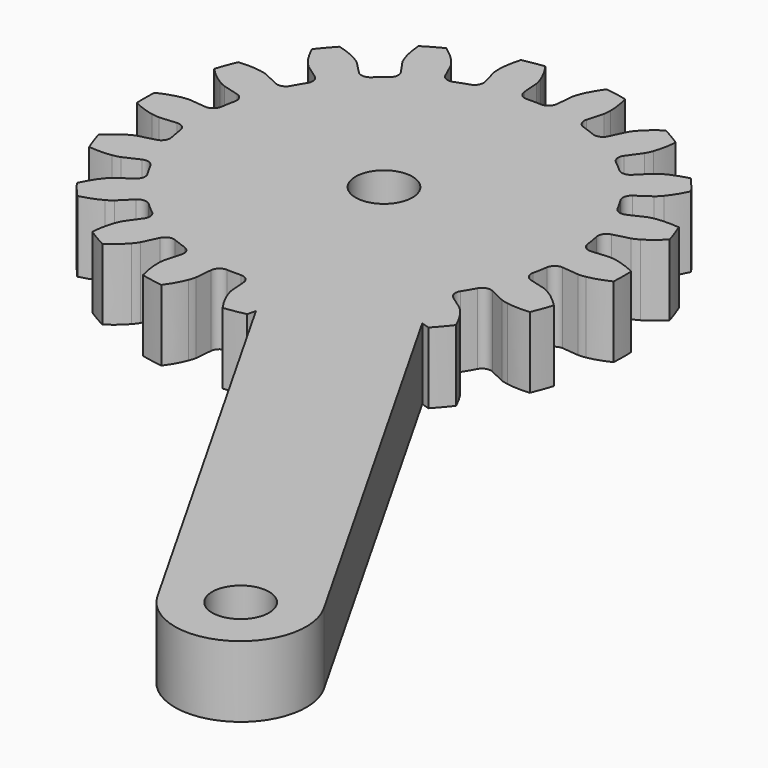
from build123d import *

# Parameters (mm, degrees)
CYLINDER006_R            = 1.6
CYLINDER006_DEPTH        = 30
EXTRUDE001_DEPTH         = 4
PAD004_DEPTH             = 4
CUT003_PLACEMENT_ANGLE   = -90.0000000001
CLONE015_PLACEMENT_ANGLE = 29.6010308611


with BuildPart() as finger_drill_master002:
    # Cylinder006 → Cylinder006 (new body)
    with BuildSketch(Plane.XY.offset(-8)):
        Circle(CYLINDER006_R)
    extrude(amount=CYLINDER006_DEPTH)


with BuildPart() as clone014:
    # Clone014 base: copy of finger-drill-master002
    add(finger_drill_master002.part)


with BuildPart() as clone014_1:
    # Clone014 placement: moved
    add(clone014.part.moved(Location((40, 0, 0))))


with BuildPart() as gear_drills001:
    # Clone013 base: copy of finger-drill-master002
    add(finger_drill_master002.part)

    # Fusion005: union Clone014
    add(clone014_1.part)


with BuildPart() as extrude001:
    # InvoluteGear001 → Extrude001 (new body)
    with BuildSketch(Plane.XY):
        with BuildLine():
            Line((10.9123364389, -0.9889898601), (11.8536391947, -1.0736474035))
            add(Edge.make_bspline(
                [(11.8536391947, -1.0736474035), (11.9004729513, -1.0753365715), (12.0417566801, -1.0753474223), (12.2778856715, -1.0319970418)],
                knots=[0, 0, 0, 0, 1, 1, 1, 1], degree=3))
            add(Edge.make_bspline(
                [(12.2778856715, -1.0319970418), (12.5610135171, -0.9793695837), (12.9715689189, -0.8647413418), (13.486733046, -0.6175170356)],
                knots=[0, 0, 0, 0, 1, 1, 1, 1], degree=3))
            ThreePointArc((13.486733046, -0.6175170356), (13.5008636743, 0), (13.486733046, 0.6175170356))
            add(Edge.make_bspline(
                [(13.486733046, 0.6175170356), (12.9715689189, 0.8647413418), (12.5610135171, 0.9793695837), (12.2778856715, 1.0319970418)],
                knots=[0, 0, 0, 0, 1, 1, 1, 1], degree=3))
            add(Edge.make_bspline(
                [(12.2778856715, 1.0319970418), (12.0417566801, 1.0753474223), (11.9004729513, 1.0753365715), (11.8536391947, 1.0736474035)],
                knots=[0, 0, 0, 0, 1, 1, 1, 1], degree=3))
            Line((11.8536391947, 1.0736474035), (10.9123364389, 0.9889898601))
            ThreePointArc((10.9123364389, 0.9889898601), (10.5517038642, 1.096810999), (10.3651746967, 1.4237484879))
            ThreePointArc((10.3651746967, 1.4237484879), (10.3035511159, 1.8167940588), (10.2270288375, 2.2072125874))
            ThreePointArc((10.2270288375, 2.2072125874), (10.290489713, 2.5782300658), (10.5924964809, 2.8028923993))
            Line((10.5924964809, 2.8028923993), (11.5059863196, 3.0452848339))
            add(Edge.make_bspline(
                [(11.5059863196, 3.0452848339), (11.5505733845, 3.0597156233), (11.6833403731, 3.1080273081), (11.8904023405, 3.2295242123)],
                knots=[0, 0, 0, 0, 1, 1, 1, 1], degree=3))
            add(Edge.make_bspline(
                [(11.8904023405, 3.2295242123), (12.138455837, 3.3758132726), (12.4850465508, 3.623946803), (12.8845867868, 4.0324581678)],
                knots=[0, 0, 0, 0, 1, 1, 1, 1], degree=3))
            ThreePointArc((12.8845867868, 4.0324581678), (12.6866619689, 4.6175673289), (12.4621802568, 5.193010571))
            add(Edge.make_bspline(
                [(12.4621802568, 5.193010571), (11.8935286354, 5.2491289186), (11.4685275862, 5.2164260143), (11.1844747882, 5.1690442219)],
                knots=[0, 0, 0, 0, 1, 1, 1, 1], degree=3))
            add(Edge.make_bspline(
                [(11.1844747882, 5.1690442219), (10.9477594141, 5.1290193831), (10.8149998479, 5.0806873055), (10.7715682419, 5.0630819187)],
                knots=[0, 0, 0, 0, 1, 1, 1, 1], degree=3))
            Line((10.7715682419, 5.0630819187), (9.9159875735, 4.6615853464))
            ThreePointArc((9.9159875735, 4.6615853464), (9.5402268028, 4.6395604701), (9.2531275137, 4.8829844833))
            ThreePointArc((9.2531275137, 4.8829844833), (9.0607907871, 5.23125), (8.8553523657, 5.5719512497))
            ThreePointArc((8.8553523657, 5.5719512497), (8.7880906309, 5.942298534), (8.9950451186, 6.2567044691))
            Line((8.9950451186, 6.2567044691), (9.770541684, 6.7969107767))
            add(Edge.make_bspline(
                [(9.770541684, 6.7969107767), (9.8075041992, 6.8257209574), (9.9157407894, 6.9165280756), (10.0687610036, 7.1015171836)],
                knots=[0, 0, 0, 0, 1, 1, 1, 1], degree=3))
            add(Edge.make_bspline(
                [(10.0687610036, 7.1015171836), (10.2518212384, 7.3238232265), (10.4926433089, 7.6755334796), (10.728369205, 8.1960594034)],
                knots=[0, 0, 0, 0, 1, 1, 1, 1], degree=3))
            ThreePointArc((10.728369205, 8.1960594034), (10.342261595, 8.6781878899), (9.9345046064, 9.1421503908))
            add(Edge.make_bspline(
                [(9.9345046064, 9.1421503908), (9.3809532688, 9.0003940789), (8.992767971, 8.8243044813), (8.7420511802, 8.6826283819)],
                knots=[0, 0, 0, 0, 1, 1, 1, 1], degree=3))
            add(Edge.make_bspline(
                [(8.7420511802, 8.6826283819), (8.5333007911, 8.5640559101), (8.4250781504, 8.4732321675), (8.3902871877, 8.4418340314)],
                knots=[0, 0, 0, 0, 1, 1, 1, 1], degree=3))
            Line((8.3902871877, 8.4418340314), (7.7236242623, 7.7719248423))
            ThreePointArc((7.7236242623, 7.7719248423), (7.3780575903, 7.6227104759), (7.025016591, 7.7532604848))
            ThreePointArc((7.025016591, 7.7532604848), (6.7251653663, 8.0147399861), (6.4155897075, 8.264630358))
            ThreePointArc((6.4155897075, 8.264630358), (6.2257181204, 8.5896381001), (6.3126585624, 8.9558656407))
            Line((6.3126585624, 8.9558656407), (6.8566255235, 9.7287289682))
            add(Edge.make_bspline(
                [(6.8566255235, 9.7287289682), (6.8815052641, 9.7684436071), (6.9521565257, 9.8907934801), (7.0326784905, 10.1169623754)],
                knots=[0, 0, 0, 0, 1, 1, 1, 1], degree=3))
            add(Edge.make_bspline(
                [(7.0326784905, 10.1169623754), (7.1286656978, 10.3884720112), (7.2346724291, 10.8013375398), (7.2781519631, 11.371094914)],
                knots=[0, 0, 0, 0, 1, 1, 1, 1], degree=3))
            ThreePointArc((7.2781519631, 11.371094914), (6.7504318371, 11.6920909149), (6.2085810829, 11.9886119497))
            add(Edge.make_bspline(
                [(6.2085810829, 11.9886119497), (5.7368964898, 11.6660788816), (5.4323478194, 11.367841595), (5.2452071809, 11.1489594171)],
                knots=[0, 0, 0, 0, 1, 1, 1, 1], degree=3))
            add(Edge.make_bspline(
                [(5.2452071809, 11.1489594171), (5.0896001545, 10.9661409023), (5.0189676871, 10.8437801786), (4.9970136712, 10.8023763717)],
                knots=[0, 0, 0, 0, 1, 1, 1, 1], degree=3))
            Line((4.9970136712, 10.8023763717), (4.5996778766, 9.9448555008))
            ThreePointArc((4.5996778766, 9.9448555008), (4.3259857438, 9.6864490991), (3.9495849892, 9.688378846))
            ThreePointArc((3.9495849892, 9.688378846), (3.5783857495, 9.831534045), (3.2020122465, 9.9604730723))
            ThreePointArc((3.2020122465, 9.9604730723), (2.9124321227, 10.2009405417), (2.8688722185, 10.5748172416))
            Line((2.8688722185, 10.5748172416), (3.1156991319, 11.4871188653))
            add(Edge.make_bspline(
                [(3.1156991319, 11.4871188653), (3.1254952341, 11.5329477909), (3.1500395821, 11.6720832183), (3.1483511603, 11.9121525942)],
                knots=[0, 0, 0, 0, 1, 1, 1, 1], degree=3))
            add(Edge.make_bspline(
                [(3.1483511603, 11.9121525942), (3.145687866, 12.2001177539), (3.104093282, 12.6243408819), (2.9500821804, 13.1746085586)],
                knots=[0, 0, 0, 0, 1, 1, 1, 1], degree=3))
            ThreePointArc((2.9500821804, 13.1746085586), (2.344400374, 13.2957552188), (1.7338110518, 13.3890699744))
            add(Edge.make_bspline(
                [(1.7338110518, 13.3890699744), (1.4008853265, 12.9246623982), (1.2167063478, 12.5402492408), (1.1157137846, 12.2705614055)],
                knots=[0, 0, 0, 0, 1, 1, 1, 1], degree=3))
            add(Edge.make_bspline(
                [(1.1157137846, 12.2705614055), (1.0320186248, 12.0455474587), (1.0074956487, 11.9064082629), (1.0010265579, 11.8599926954)],
                knots=[0, 0, 0, 0, 1, 1, 1, 1], degree=3))
            Line((1.0010265579, 11.8599926954), (0.9209424549, 10.9182898155))
            ThreePointArc((0.9209424549, 10.9182898155), (0.7521361719, 10.5818590042), (0.397775148, 10.454935733))
            ThreePointArc((0.397775148, 10.454935733), (0, 10.4625), (-0.397775148, 10.454935733))
            ThreePointArc((-0.397775148, 10.454935733), (-0.7521361719, 10.5818590042), (-0.9209424549, 10.9182898155))
            Line((-0.9209424549, 10.9182898155), (-1.0010265579, 11.8599926954))
            add(Edge.make_bspline(
                [(-1.0010265579, 11.8599926954), (-1.0074956487, 11.9064082629), (-1.0320186248, 12.0455474587), (-1.1157137846, 12.2705614055)],
                knots=[0, 0, 0, 0, 1, 1, 1, 1], degree=3))
            add(Edge.make_bspline(
                [(-1.1157137846, 12.2705614055), (-1.2167063478, 12.5402492408), (-1.4008853265, 12.9246623982), (-1.7338110518, 13.3890699744)],
                knots=[0, 0, 0, 0, 1, 1, 1, 1], degree=3))
            ThreePointArc((-1.7338110518, 13.3890699744), (-2.344400374, 13.2957552188), (-2.9500821804, 13.1746085586))
            add(Edge.make_bspline(
                [(-2.9500821804, 13.1746085586), (-3.104093282, 12.6243408819), (-3.145687866, 12.2001177539), (-3.1483511603, 11.9121525942)],
                knots=[0, 0, 0, 0, 1, 1, 1, 1], degree=3))
            add(Edge.make_bspline(
                [(-3.1483511603, 11.9121525942), (-3.1500395821, 11.6720832183), (-3.1254952341, 11.5329477909), (-3.1156991319, 11.4871188653)],
                knots=[0, 0, 0, 0, 1, 1, 1, 1], degree=3))
            Line((-3.1156991319, 11.4871188653), (-2.8688722185, 10.5748172416))
            ThreePointArc((-2.8688722185, 10.5748172416), (-2.9124321227, 10.2009405417), (-3.2020122465, 9.9604730723))
            ThreePointArc((-3.2020122465, 9.9604730723), (-3.5783857495, 9.831534045), (-3.9495849892, 9.688378846))
            ThreePointArc((-3.9495849892, 9.688378846), (-4.3259857438, 9.6864490991), (-4.5996778766, 9.9448555008))
            Line((-4.5996778766, 9.9448555008), (-4.9970136712, 10.8023763717))
            add(Edge.make_bspline(
                [(-4.9970136712, 10.8023763717), (-5.0189676871, 10.8437801786), (-5.0896001545, 10.9661409023), (-5.2452071809, 11.1489594171)],
                knots=[0, 0, 0, 0, 1, 1, 1, 1], degree=3))
            add(Edge.make_bspline(
                [(-5.2452071809, 11.1489594171), (-5.4323478194, 11.367841595), (-5.7368964898, 11.6660788816), (-6.2085810829, 11.9886119497)],
                knots=[0, 0, 0, 0, 1, 1, 1, 1], degree=3))
            ThreePointArc((-6.2085810829, 11.9886119497), (-6.7504318371, 11.6920909149), (-7.2781519631, 11.371094914))
            add(Edge.make_bspline(
                [(-7.2781519631, 11.371094914), (-7.2346724291, 10.8013375398), (-7.1286656978, 10.3884720112), (-7.0326784905, 10.1169623754)],
                knots=[0, 0, 0, 0, 1, 1, 1, 1], degree=3))
            add(Edge.make_bspline(
                [(-7.0326784905, 10.1169623754), (-6.9521565257, 9.8907934801), (-6.8815052641, 9.7684436071), (-6.8566255235, 9.7287289682)],
                knots=[0, 0, 0, 0, 1, 1, 1, 1], degree=3))
            Line((-6.8566255235, 9.7287289682), (-6.3126585624, 8.9558656407))
            ThreePointArc((-6.3126585624, 8.9558656407), (-6.2257181204, 8.5896381001), (-6.4155897075, 8.264630358))
            ThreePointArc((-6.4155897075, 8.264630358), (-6.7251653663, 8.0147399861), (-7.025016591, 7.7532604848))
            ThreePointArc((-7.025016591, 7.7532604848), (-7.3780575903, 7.6227104759), (-7.7236242623, 7.7719248423))
            Line((-7.7236242623, 7.7719248423), (-8.3902871877, 8.4418340314))
            add(Edge.make_bspline(
                [(-8.3902871877, 8.4418340314), (-8.4250781504, 8.4732321675), (-8.5333007911, 8.5640559101), (-8.7420511802, 8.6826283819)],
                knots=[0, 0, 0, 0, 1, 1, 1, 1], degree=3))
            add(Edge.make_bspline(
                [(-8.7420511802, 8.6826283819), (-8.992767971, 8.8243044813), (-9.3809532688, 9.0003940789), (-9.9345046064, 9.1421503908)],
                knots=[0, 0, 0, 0, 1, 1, 1, 1], degree=3))
            ThreePointArc((-9.9345046064, 9.1421503908), (-10.342261595, 8.6781878899), (-10.728369205, 8.1960594034))
            add(Edge.make_bspline(
                [(-10.728369205, 8.1960594034), (-10.4926433089, 7.6755334796), (-10.2518212384, 7.3238232265), (-10.0687610036, 7.1015171836)],
                knots=[0, 0, 0, 0, 1, 1, 1, 1], degree=3))
            add(Edge.make_bspline(
                [(-10.0687610036, 7.1015171836), (-9.9157407894, 6.9165280756), (-9.8075041992, 6.8257209574), (-9.770541684, 6.7969107767)],
                knots=[0, 0, 0, 0, 1, 1, 1, 1], degree=3))
            Line((-9.770541684, 6.7969107767), (-8.9950451186, 6.2567044691))
            ThreePointArc((-8.9950451186, 6.2567044691), (-8.7880906309, 5.942298534), (-8.8553523657, 5.5719512497))
            ThreePointArc((-8.8553523657, 5.5719512497), (-9.0607907871, 5.23125), (-9.2531275137, 4.8829844833))
            ThreePointArc((-9.2531275137, 4.8829844833), (-9.5402268028, 4.6395604701), (-9.9159875735, 4.6615853464))
            Line((-9.9159875735, 4.6615853464), (-10.7715682419, 5.0630819187))
            add(Edge.make_bspline(
                [(-10.7715682419, 5.0630819187), (-10.8149998479, 5.0806873055), (-10.9477594141, 5.1290193831), (-11.1844747882, 5.1690442219)],
                knots=[0, 0, 0, 0, 1, 1, 1, 1], degree=3))
            add(Edge.make_bspline(
                [(-11.1844747882, 5.1690442219), (-11.4685275862, 5.2164260143), (-11.8935286354, 5.2491289186), (-12.4621802568, 5.193010571)],
                knots=[0, 0, 0, 0, 1, 1, 1, 1], degree=3))
            ThreePointArc((-12.4621802568, 5.193010571), (-12.6866619689, 4.6175673289), (-12.8845867868, 4.0324581678))
            add(Edge.make_bspline(
                [(-12.8845867868, 4.0324581678), (-12.4850465508, 3.623946803), (-12.138455837, 3.3758132726), (-11.8904023405, 3.2295242123)],
                knots=[0, 0, 0, 0, 1, 1, 1, 1], degree=3))
            add(Edge.make_bspline(
                [(-11.8904023405, 3.2295242123), (-11.6833403731, 3.1080273081), (-11.5505733845, 3.0597156233), (-11.5059863196, 3.0452848339)],
                knots=[0, 0, 0, 0, 1, 1, 1, 1], degree=3))
            Line((-11.5059863196, 3.0452848339), (-10.5924964809, 2.8028923993))
            ThreePointArc((-10.5924964809, 2.8028923993), (-10.290489713, 2.5782300658), (-10.2270288375, 2.2072125874))
            ThreePointArc((-10.2270288375, 2.2072125874), (-10.3035511159, 1.8167940588), (-10.3651746967, 1.4237484879))
            ThreePointArc((-10.3651746967, 1.4237484879), (-10.5517038642, 1.096810999), (-10.9123364389, 0.9889898601))
            Line((-10.9123364389, 0.9889898601), (-11.8536391947, 1.0736474035))
            add(Edge.make_bspline(
                [(-11.8536391947, 1.0736474035), (-11.9004729513, 1.0753365715), (-12.0417566801, 1.0753474223), (-12.2778856715, 1.0319970418)],
                knots=[0, 0, 0, 0, 1, 1, 1, 1], degree=3))
            add(Edge.make_bspline(
                [(-12.2778856715, 1.0319970418), (-12.5610135171, 0.9793695837), (-12.9715689189, 0.8647413418), (-13.486733046, 0.6175170356)],
                knots=[0, 0, 0, 0, 1, 1, 1, 1], degree=3))
            ThreePointArc((-13.486733046, 0.6175170356), (-13.5008636743, 0), (-13.486733046, -0.6175170356))
            add(Edge.make_bspline(
                [(-13.486733046, -0.6175170356), (-12.9715689189, -0.8647413418), (-12.5610135171, -0.9793695837), (-12.2778856715, -1.0319970418)],
                knots=[0, 0, 0, 0, 1, 1, 1, 1], degree=3))
            add(Edge.make_bspline(
                [(-12.2778856715, -1.0319970418), (-12.0417566801, -1.0753474223), (-11.9004729513, -1.0753365715), (-11.8536391947, -1.0736474035)],
                knots=[0, 0, 0, 0, 1, 1, 1, 1], degree=3))
            Line((-11.8536391947, -1.0736474035), (-10.9123364389, -0.9889898601))
            ThreePointArc((-10.9123364389, -0.9889898601), (-10.5517038642, -1.096810999), (-10.3651746967, -1.4237484879))
            ThreePointArc((-10.3651746967, -1.4237484879), (-10.3035511159, -1.8167940588), (-10.2270288375, -2.2072125874))
            ThreePointArc((-10.2270288375, -2.2072125874), (-10.290489713, -2.5782300658), (-10.5924964809, -2.8028923993))
            Line((-10.5924964809, -2.8028923993), (-11.5059863196, -3.0452848339))
            add(Edge.make_bspline(
                [(-11.5059863196, -3.0452848339), (-11.5505733845, -3.0597156233), (-11.6833403731, -3.1080273081), (-11.8904023405, -3.2295242123)],
                knots=[0, 0, 0, 0, 1, 1, 1, 1], degree=3))
            add(Edge.make_bspline(
                [(-11.8904023405, -3.2295242123), (-12.138455837, -3.3758132726), (-12.4850465508, -3.623946803), (-12.8845867868, -4.0324581678)],
                knots=[0, 0, 0, 0, 1, 1, 1, 1], degree=3))
            ThreePointArc((-12.8845867868, -4.0324581678), (-12.6866619689, -4.6175673289), (-12.4621802568, -5.193010571))
            add(Edge.make_bspline(
                [(-12.4621802568, -5.193010571), (-11.8935286354, -5.2491289186), (-11.4685275862, -5.2164260143), (-11.1844747882, -5.1690442219)],
                knots=[0, 0, 0, 0, 1, 1, 1, 1], degree=3))
            add(Edge.make_bspline(
                [(-11.1844747882, -5.1690442219), (-10.9477594141, -5.1290193831), (-10.8149998479, -5.0806873055), (-10.7715682419, -5.0630819187)],
                knots=[0, 0, 0, 0, 1, 1, 1, 1], degree=3))
            Line((-10.7715682419, -5.0630819187), (-9.9159875735, -4.6615853464))
            ThreePointArc((-9.9159875735, -4.6615853464), (-9.5402268028, -4.6395604701), (-9.2531275137, -4.8829844833))
            ThreePointArc((-9.2531275137, -4.8829844833), (-9.0607907871, -5.23125), (-8.8553523657, -5.5719512497))
            ThreePointArc((-8.8553523657, -5.5719512497), (-8.7880906309, -5.942298534), (-8.9950451186, -6.2567044691))
            Line((-8.9950451186, -6.2567044691), (-9.770541684, -6.7969107767))
            add(Edge.make_bspline(
                [(-9.770541684, -6.7969107767), (-9.8075041992, -6.8257209574), (-9.9157407894, -6.9165280756), (-10.0687610036, -7.1015171836)],
                knots=[0, 0, 0, 0, 1, 1, 1, 1], degree=3))
            add(Edge.make_bspline(
                [(-10.0687610036, -7.1015171836), (-10.2518212384, -7.3238232265), (-10.4926433089, -7.6755334796), (-10.728369205, -8.1960594034)],
                knots=[0, 0, 0, 0, 1, 1, 1, 1], degree=3))
            ThreePointArc((-10.728369205, -8.1960594034), (-10.342261595, -8.6781878899), (-9.9345046064, -9.1421503908))
            add(Edge.make_bspline(
                [(-9.9345046064, -9.1421503908), (-9.3809532688, -9.0003940789), (-8.992767971, -8.8243044813), (-8.7420511802, -8.6826283819)],
                knots=[0, 0, 0, 0, 1, 1, 1, 1], degree=3))
            add(Edge.make_bspline(
                [(-8.7420511802, -8.6826283819), (-8.5333007911, -8.5640559101), (-8.4250781504, -8.4732321675), (-8.3902871877, -8.4418340314)],
                knots=[0, 0, 0, 0, 1, 1, 1, 1], degree=3))
            Line((-8.3902871877, -8.4418340314), (-7.7236242623, -7.7719248423))
            ThreePointArc((-7.7236242623, -7.7719248423), (-7.3780575903, -7.6227104759), (-7.025016591, -7.7532604848))
            ThreePointArc((-7.025016591, -7.7532604848), (-6.7251653663, -8.0147399861), (-6.4155897075, -8.264630358))
            ThreePointArc((-6.4155897075, -8.264630358), (-6.2257181204, -8.5896381001), (-6.3126585624, -8.9558656407))
            Line((-6.3126585624, -8.9558656407), (-6.8566255235, -9.7287289682))
            add(Edge.make_bspline(
                [(-6.8566255235, -9.7287289682), (-6.8815052641, -9.7684436071), (-6.9521565257, -9.8907934801), (-7.0326784905, -10.1169623754)],
                knots=[0, 0, 0, 0, 1, 1, 1, 1], degree=3))
            add(Edge.make_bspline(
                [(-7.0326784905, -10.1169623754), (-7.1286656978, -10.3884720112), (-7.2346724291, -10.8013375398), (-7.2781519631, -11.371094914)],
                knots=[0, 0, 0, 0, 1, 1, 1, 1], degree=3))
            ThreePointArc((-7.2781519631, -11.371094914), (-6.7504318371, -11.6920909149), (-6.2085810829, -11.9886119497))
            add(Edge.make_bspline(
                [(-6.2085810829, -11.9886119497), (-5.7368964898, -11.6660788816), (-5.4323478194, -11.367841595), (-5.2452071809, -11.1489594171)],
                knots=[0, 0, 0, 0, 1, 1, 1, 1], degree=3))
            add(Edge.make_bspline(
                [(-5.2452071809, -11.1489594171), (-5.0896001545, -10.9661409023), (-5.0189676871, -10.8437801786), (-4.9970136712, -10.8023763717)],
                knots=[0, 0, 0, 0, 1, 1, 1, 1], degree=3))
            Line((-4.9970136712, -10.8023763717), (-4.5996778766, -9.9448555008))
            ThreePointArc((-4.5996778766, -9.9448555008), (-4.3259857438, -9.6864490991), (-3.9495849892, -9.688378846))
            ThreePointArc((-3.9495849892, -9.688378846), (-3.5783857495, -9.831534045), (-3.2020122465, -9.9604730723))
            ThreePointArc((-3.2020122465, -9.9604730723), (-2.9124321227, -10.2009405417), (-2.8688722185, -10.5748172416))
            Line((-2.8688722185, -10.5748172416), (-3.1156991319, -11.4871188653))
            add(Edge.make_bspline(
                [(-3.1156991319, -11.4871188653), (-3.1254952341, -11.5329477909), (-3.1500395821, -11.6720832183), (-3.1483511603, -11.9121525942)],
                knots=[0, 0, 0, 0, 1, 1, 1, 1], degree=3))
            add(Edge.make_bspline(
                [(-3.1483511603, -11.9121525942), (-3.145687866, -12.2001177539), (-3.104093282, -12.6243408819), (-2.9500821804, -13.1746085586)],
                knots=[0, 0, 0, 0, 1, 1, 1, 1], degree=3))
            ThreePointArc((-2.9500821804, -13.1746085586), (-2.344400374, -13.2957552188), (-1.7338110518, -13.3890699744))
            add(Edge.make_bspline(
                [(-1.7338110518, -13.3890699744), (-1.4008853265, -12.9246623982), (-1.2167063478, -12.5402492408), (-1.1157137846, -12.2705614055)],
                knots=[0, 0, 0, 0, 1, 1, 1, 1], degree=3))
            add(Edge.make_bspline(
                [(-1.1157137846, -12.2705614055), (-1.0320186248, -12.0455474587), (-1.0074956487, -11.9064082629), (-1.0010265579, -11.8599926954)],
                knots=[0, 0, 0, 0, 1, 1, 1, 1], degree=3))
            Line((-1.0010265579, -11.8599926954), (-0.9209424549, -10.9182898155))
            ThreePointArc((-0.9209424549, -10.9182898155), (-0.7521361719, -10.5818590042), (-0.397775148, -10.454935733))
            ThreePointArc((-0.397775148, -10.454935733), (0, -10.4625), (0.397775148, -10.454935733))
            ThreePointArc((0.397775148, -10.454935733), (0.7521361719, -10.5818590042), (0.9209424549, -10.9182898155))
            Line((0.9209424549, -10.9182898155), (1.0010265579, -11.8599926954))
            add(Edge.make_bspline(
                [(1.0010265579, -11.8599926954), (1.0074956487, -11.9064082629), (1.0320186248, -12.0455474587), (1.1157137846, -12.2705614055)],
                knots=[0, 0, 0, 0, 1, 1, 1, 1], degree=3))
            add(Edge.make_bspline(
                [(1.1157137846, -12.2705614055), (1.2167063478, -12.5402492408), (1.4008853265, -12.9246623982), (1.7338110518, -13.3890699744)],
                knots=[0, 0, 0, 0, 1, 1, 1, 1], degree=3))
            ThreePointArc((1.7338110518, -13.3890699744), (2.344400374, -13.2957552188), (2.9500821804, -13.1746085586))
            add(Edge.make_bspline(
                [(2.9500821804, -13.1746085586), (3.104093282, -12.6243408819), (3.145687866, -12.2001177539), (3.1483511603, -11.9121525942)],
                knots=[0, 0, 0, 0, 1, 1, 1, 1], degree=3))
            add(Edge.make_bspline(
                [(3.1483511603, -11.9121525942), (3.1500395821, -11.6720832183), (3.1254952341, -11.5329477909), (3.1156991319, -11.4871188653)],
                knots=[0, 0, 0, 0, 1, 1, 1, 1], degree=3))
            Line((3.1156991319, -11.4871188653), (2.8688722185, -10.5748172416))
            ThreePointArc((2.8688722185, -10.5748172416), (2.9124321227, -10.2009405417), (3.2020122465, -9.9604730723))
            ThreePointArc((3.2020122465, -9.9604730723), (3.5783857495, -9.831534045), (3.9495849892, -9.688378846))
            ThreePointArc((3.9495849892, -9.688378846), (4.3259857438, -9.6864490991), (4.5996778766, -9.9448555008))
            Line((4.5996778766, -9.9448555008), (4.9970136712, -10.8023763717))
            add(Edge.make_bspline(
                [(4.9970136712, -10.8023763717), (5.0189676871, -10.8437801786), (5.0896001545, -10.9661409023), (5.2452071809, -11.1489594171)],
                knots=[0, 0, 0, 0, 1, 1, 1, 1], degree=3))
            add(Edge.make_bspline(
                [(5.2452071809, -11.1489594171), (5.4323478194, -11.367841595), (5.7368964898, -11.6660788816), (6.2085810829, -11.9886119497)],
                knots=[0, 0, 0, 0, 1, 1, 1, 1], degree=3))
            ThreePointArc((6.2085810829, -11.9886119497), (6.7504318371, -11.6920909149), (7.2781519631, -11.371094914))
            add(Edge.make_bspline(
                [(7.2781519631, -11.371094914), (7.2346724291, -10.8013375398), (7.1286656978, -10.3884720112), (7.0326784905, -10.1169623754)],
                knots=[0, 0, 0, 0, 1, 1, 1, 1], degree=3))
            add(Edge.make_bspline(
                [(7.0326784905, -10.1169623754), (6.9521565257, -9.8907934801), (6.8815052641, -9.7684436071), (6.8566255235, -9.7287289682)],
                knots=[0, 0, 0, 0, 1, 1, 1, 1], degree=3))
            Line((6.8566255235, -9.7287289682), (6.3126585624, -8.9558656407))
            ThreePointArc((6.3126585624, -8.9558656407), (6.2257181204, -8.5896381001), (6.4155897075, -8.264630358))
            ThreePointArc((6.4155897075, -8.264630358), (6.7251653663, -8.0147399861), (7.025016591, -7.7532604848))
            ThreePointArc((7.025016591, -7.7532604848), (7.3780575903, -7.6227104759), (7.7236242623, -7.7719248423))
            Line((7.7236242623, -7.7719248423), (8.3902871877, -8.4418340314))
            add(Edge.make_bspline(
                [(8.3902871877, -8.4418340314), (8.4250781504, -8.4732321675), (8.5333007911, -8.5640559101), (8.7420511802, -8.6826283819)],
                knots=[0, 0, 0, 0, 1, 1, 1, 1], degree=3))
            add(Edge.make_bspline(
                [(8.7420511802, -8.6826283819), (8.992767971, -8.8243044813), (9.3809532688, -9.0003940789), (9.9345046064, -9.1421503908)],
                knots=[0, 0, 0, 0, 1, 1, 1, 1], degree=3))
            ThreePointArc((9.9345046064, -9.1421503908), (10.342261595, -8.6781878899), (10.728369205, -8.1960594034))
            add(Edge.make_bspline(
                [(10.728369205, -8.1960594034), (10.4926433089, -7.6755334796), (10.2518212384, -7.3238232265), (10.0687610036, -7.1015171836)],
                knots=[0, 0, 0, 0, 1, 1, 1, 1], degree=3))
            add(Edge.make_bspline(
                [(10.0687610036, -7.1015171836), (9.9157407894, -6.9165280756), (9.8075041992, -6.8257209574), (9.770541684, -6.7969107767)],
                knots=[0, 0, 0, 0, 1, 1, 1, 1], degree=3))
            Line((9.770541684, -6.7969107767), (8.9950451186, -6.2567044691))
            ThreePointArc((8.9950451186, -6.2567044691), (8.7880906309, -5.942298534), (8.8553523657, -5.5719512497))
            ThreePointArc((8.8553523657, -5.5719512497), (9.0607907871, -5.23125), (9.2531275137, -4.8829844833))
            ThreePointArc((9.2531275137, -4.8829844833), (9.5402268028, -4.6395604701), (9.9159875735, -4.6615853464))
            Line((9.9159875735, -4.6615853464), (10.7715682419, -5.0630819187))
            add(Edge.make_bspline(
                [(10.7715682419, -5.0630819187), (10.8149998479, -5.0806873055), (10.9477594141, -5.1290193831), (11.1844747882, -5.1690442219)],
                knots=[0, 0, 0, 0, 1, 1, 1, 1], degree=3))
            add(Edge.make_bspline(
                [(11.1844747882, -5.1690442219), (11.4685275862, -5.2164260143), (11.8935286354, -5.2491289186), (12.4621802568, -5.193010571)],
                knots=[0, 0, 0, 0, 1, 1, 1, 1], degree=3))
            ThreePointArc((12.4621802568, -5.193010571), (12.6866619689, -4.6175673289), (12.8845867868, -4.0324581678))
            add(Edge.make_bspline(
                [(12.8845867868, -4.0324581678), (12.4850465508, -3.623946803), (12.138455837, -3.3758132726), (11.8904023405, -3.2295242123)],
                knots=[0, 0, 0, 0, 1, 1, 1, 1], degree=3))
            add(Edge.make_bspline(
                [(11.8904023405, -3.2295242123), (11.6833403731, -3.1080273081), (11.5505733845, -3.0597156233), (11.5059863196, -3.0452848339)],
                knots=[0, 0, 0, 0, 1, 1, 1, 1], degree=3))
            Line((11.5059863196, -3.0452848339), (10.5924964809, -2.8028923993))
            ThreePointArc((10.5924964809, -2.8028923993), (10.290489713, -2.5782300658), (10.2270288375, -2.2072125874))
            ThreePointArc((10.2270288375, -2.2072125874), (10.3035511159, -1.8167940588), (10.3651746967, -1.4237484879))
            ThreePointArc((10.3651746967, -1.4237484879), (10.5517038642, -1.096810999), (10.9123364389, -0.9889898601))
        make_face()
    extrude(amount=EXTRUDE001_DEPTH)


with BuildPart() as right_gear001:
    # Sketch004 → Pad004 (new body)
    with BuildSketch(Plane.XY):
        with BuildLine():
            ThreePointArc((0, 3.7), (-3.7, 0), (0, -3.7))
            Line((0, -3.7), (40, -3.7))
            ThreePointArc((40, -3.7), (43.7, 0), (40, 3.7))
            Line((0, 3.7), (40, 3.7))
        make_face()
    extrude(amount=PAD004_DEPTH)

    # Fusion006: union Extrude001
    add(extrude001.part)

    # Cut003: cut gear-drills001
    add(gear_drills001.part, mode=Mode.SUBTRACT)


with BuildPart() as right_gear001_1:
    # Cut003 placement: moved
    add(right_gear001.part.moved(Location((12.4, 16, 4.5))).rotate(Axis((12.4, 16, 4.5), (0, 0, 1)), CUT003_PLACEMENT_ANGLE))


with BuildPart() as right_gear001_2:
    # Clone015 placement: moved
    add(right_gear001_1.part.moved(Location((221.325173364, 244.8968478797, 0.2))).rotate(Axis((221.325173364, 244.8968478797, 0.2), (0, 0, 1)), CLONE015_PLACEMENT_ANGLE))


solid = right_gear001_2.part
